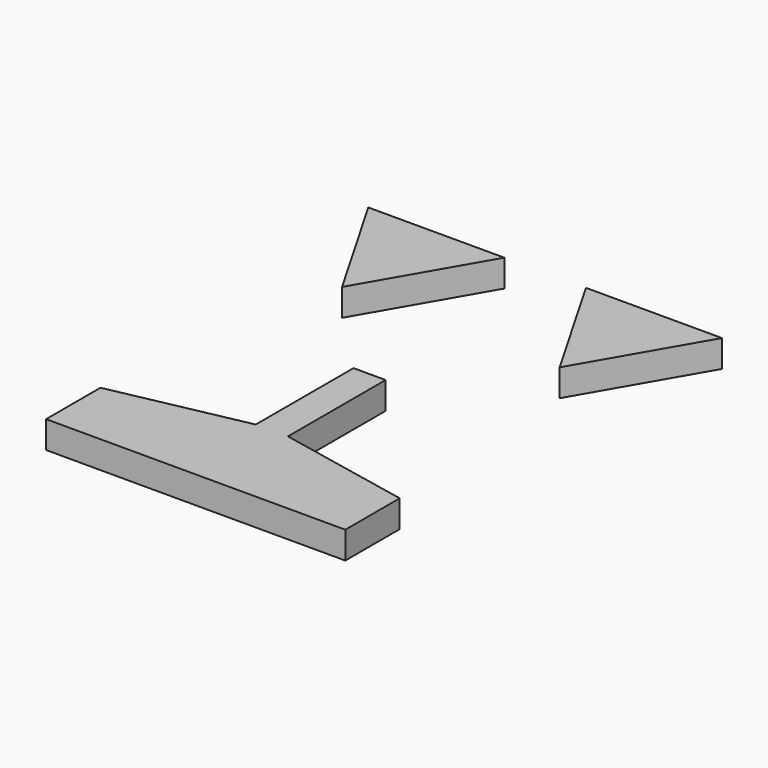
from build123d import *

# Parameters (mm, degrees)
F0_W     = 15.010388
F0_H     = 15.875
F1_DEPTH = 12.7


with BuildPart() as f1:
    # F0 (on Top) → F1 (new body)
    with BuildSketch(Plane.XY):
        Polygon((-19.05, 69.130871), (-82.55, 69.130871), (-50.8, 14.138258), align=None)
        Polygon((50.8, 14.138258), (82.55, 69.130871), (19.05, 69.130871), align=None)
        Polygon((7.505194, -90.319756), (7.505194, -33.304513), (-7.505194, -33.304513), (-7.505194, -90.319756), (-7.505194, -103.019756), (7.505194, -103.019756), align=None)
        Polygon((-7.505194, -103.019756), (-7.505194, -90.319756), (-69.85, -103.019756), align=None)
        Polygon((69.85, -103.019756), (7.505194, -103.019756), (7.505194, -118.894756), (-7.505194, -118.894756), (-7.505194, -103.019756), (-69.85, -103.019756), (-69.85, -134.769756), (69.85, -134.769756), align=None)
        Polygon((69.85, -103.019756), (7.505194, -90.319756), (7.505194, -103.019756), align=None)
        with Locations((0, -110.957256)):
            Rectangle(F0_W, F0_H)
    extrude(amount=F1_DEPTH)


solid = f1.part
